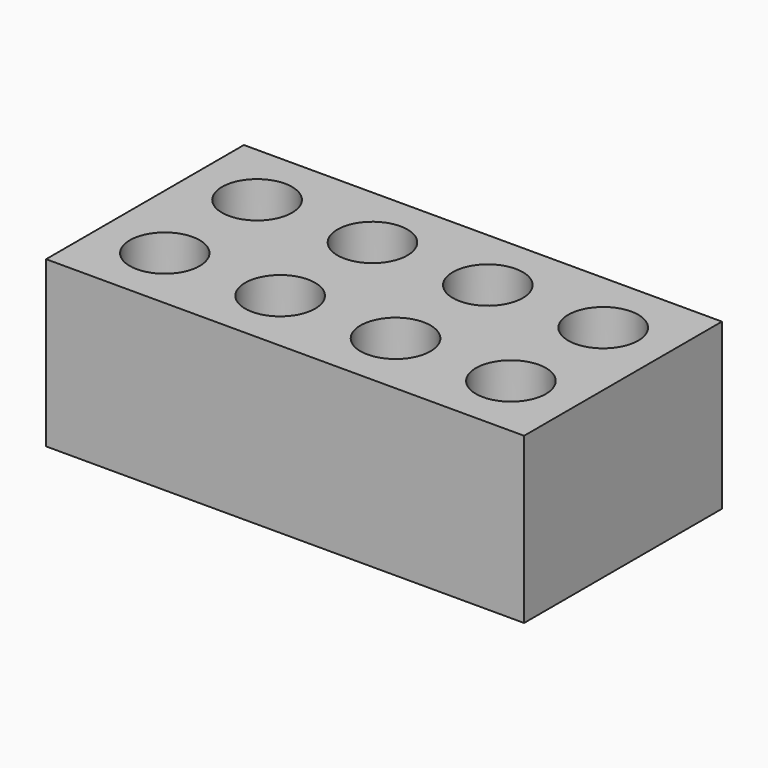
from build123d import *

# Parameters (mm, degrees)
CYLINDER003_R     = 2.125
CYLINDER003_DEPTH = 5
CYLINDER005_R     = 2.125
CYLINDER005_DEPTH = 5
CYLINDER004_R     = 2.125
CYLINDER004_DEPTH = 5
CYLINDER002_R     = 2.125
CYLINDER002_DEPTH = 5
CYLINDER001_R     = 2.125
CYLINDER001_DEPTH = 5
CYLINDER006_R     = 2.125
CYLINDER006_DEPTH = 5
CYLINDER007_R     = 2.125
CYLINDER007_DEPTH = 5
CYLINDER_R        = 2.12
CYLINDER_DEPTH    = 5
BOX_W             = 29
BOX_H             = 15
BOX_DEPTH         = 10


with BuildPart() as cylinder003:
    # Cylinder003 → Cylinder003 (new body)
    with BuildSketch(Plane(origin=(4, 11, 5), x_dir=(1, 0, 0), z_dir=(0, 0, 1))):
        Circle(CYLINDER003_R)
    extrude(amount=CYLINDER003_DEPTH)


with BuildPart() as cylinder005:
    # Cylinder005 → Cylinder005 (new body)
    with BuildSketch(Plane(origin=(25, 4, 5), x_dir=(1, 0, 0), z_dir=(0, 0, 1))):
        Circle(CYLINDER005_R)
    extrude(amount=CYLINDER005_DEPTH)


with BuildPart() as cylinder004:
    # Cylinder004 → Cylinder004 (new body)
    with BuildSketch(Plane(origin=(18, 11, 5), x_dir=(1, 0, 0), z_dir=(0, 0, 1))):
        Circle(CYLINDER004_R)
    extrude(amount=CYLINDER004_DEPTH)


with BuildPart() as cylinder002:
    # Cylinder002 → Cylinder002 (new body)
    with BuildSketch(Plane(origin=(11, 11, 5), x_dir=(1, 0, 0), z_dir=(0, 0, 1))):
        Circle(CYLINDER002_R)
    extrude(amount=CYLINDER002_DEPTH)


with BuildPart() as cylinder001:
    # Cylinder001 → Cylinder001 (new body)
    with BuildSketch(Plane(origin=(11, 4, 5), x_dir=(1, 0, 0), z_dir=(0, 0, 1))):
        Circle(CYLINDER001_R)
    extrude(amount=CYLINDER001_DEPTH)


with BuildPart() as cylinder006:
    # Cylinder006 → Cylinder006 (new body)
    with BuildSketch(Plane(origin=(18, 4, 5), x_dir=(1, 0, 0), z_dir=(0, 0, 1))):
        Circle(CYLINDER006_R)
    extrude(amount=CYLINDER006_DEPTH)


with BuildPart() as cylinder007:
    # Cylinder007 → Cylinder007 (new body)
    with BuildSketch(Plane(origin=(25, 11, 5), x_dir=(1, 0, 0), z_dir=(0, 0, 1))):
        Circle(CYLINDER007_R)
    extrude(amount=CYLINDER007_DEPTH)


with BuildPart() as fusion:
    # Cylinder → Cylinder (new body)
    with BuildSketch(Plane(origin=(4, 4, 5), x_dir=(1, 0, 0), z_dir=(0, 0, 1))):
        Circle(CYLINDER_R)
    extrude(amount=CYLINDER_DEPTH)

    # Fusion: union Cylinder003, Cylinder005, Cylinder004, Cylinder002, Cylinder001, Cylinder006, Cylinder007
    add(cylinder003.part)
    add(cylinder005.part)
    add(cylinder004.part)
    add(cylinder002.part)
    add(cylinder001.part)
    add(cylinder006.part)
    add(cylinder007.part)


with BuildPart() as cut:
    # Box → Box (new body)
    with BuildSketch(Plane.XY):
        with Locations((14.5, 7.5)):
            Rectangle(BOX_W, BOX_H)
    extrude(amount=BOX_DEPTH)

    # Cut: cut Fusion
    add(fusion.part, mode=Mode.SUBTRACT)


solid = cut.part
